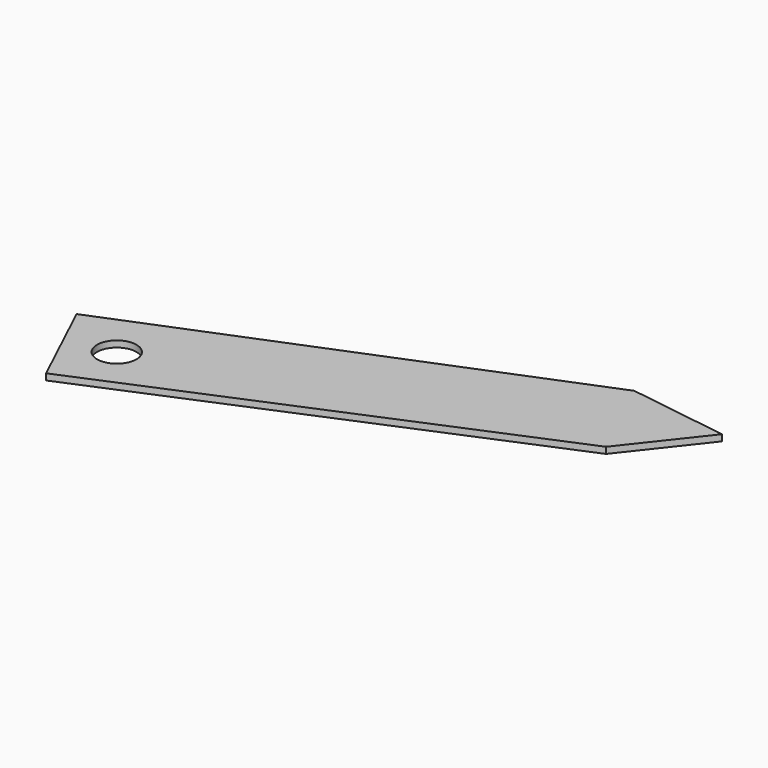
from build123d import *

# Parameters (mm, degrees)
F1_DEPTH = 2.54
F2_R     = 7.90666
F3_DEPTH = 185.42


with BuildPart() as f1:
    # F0 (on Top) → F1 (new body)
    with BuildSketch(Plane.XY):
        Polygon((-94.868019, 0), (-77.206269, -37.372001), (90.99035, 33.310704), (114.048317, 62.666044), (74.173801, 68.524554), align=None)
    extrude(amount=F1_DEPTH)

    # F2 (on face) → F3 (cut)
    with BuildSketch(Plane(origin=(0, 0, 0), x_dir=(1, 0, 0), z_dir=(0, 0, -1))):
        with Locations((-68.915717, 12.255951)):
            Circle(F2_R)
    extrude(amount=-F3_DEPTH, mode=Mode.SUBTRACT)


solid = f1.part
